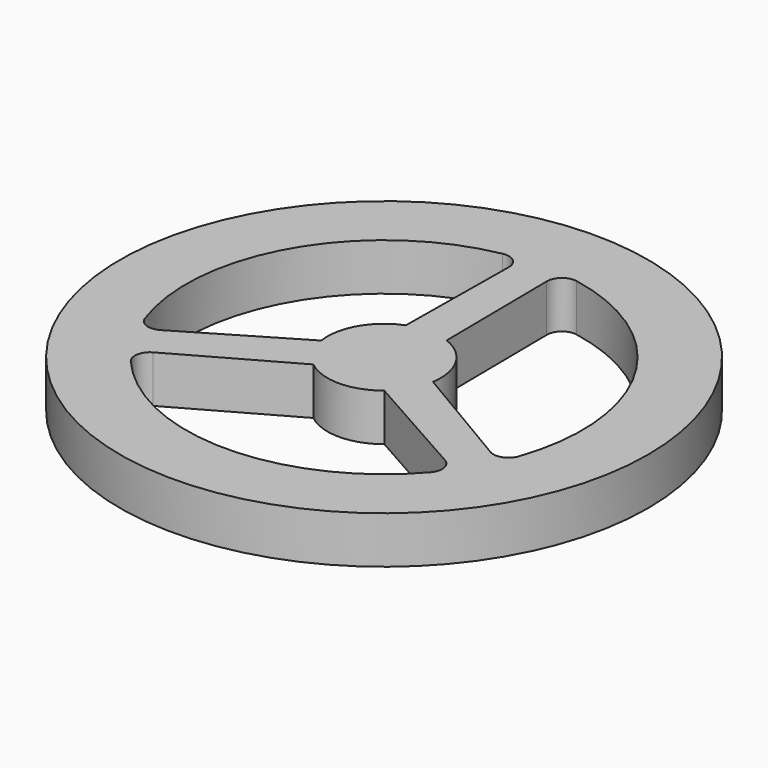
from build123d import *

# Parameters (mm, degrees)
SKETCH_R     = 17.78
PAD_DEPTH    = 3.175
FILLET_R     = 1.016
SKETCH001_R  = 3.81
PAD001_DEPTH = 3.175


with BuildPart() as part:
    # Sketch → Pad (new body)
    with BuildSketch(Plane.XY):
        Circle(SKETCH_R)
        with BuildLine():
            Line((-1.27, 13.274386), (-1.394671, 1.88415))
            ThreePointArc((-2.329057, 0.265745), (-1.649778, 0.9525), (-1.394671, 1.88415))
            Line((-2.329057, 0.265745), (-12.130956, -5.537341))
            ThreePointArc((-1.27, 13.274386), (-11.548449, 6.6675), (-12.130956, -5.537341))
        make_face(mode=Mode.SUBTRACT)
        with BuildLine():
            Line((1.27, 13.274386), (1.394671, 1.88415))
            ThreePointArc((1.394671, 1.88415), (1.649778, 0.9525), (2.329057, 0.265745))
            Line((2.329057, 0.265745), (12.130956, -5.537341))
            ThreePointArc((12.130956, -5.537341), (11.548449, 6.6675), (1.27, 13.274386))
        make_face(mode=Mode.SUBTRACT)
        with BuildLine():
            Line((-0.934387, -2.149896), (-10.860956, -7.737045))
            ThreePointArc((-10.860956, -7.737045), (0, -13.335), (10.860956, -7.737045))
            Line((0.934387, -2.149896), (10.860956, -7.737045))
            ThreePointArc((0.934387, -2.149896), (0, -1.905), (-0.934387, -2.149896))
        make_face(mode=Mode.SUBTRACT)
    extrude(amount=PAD_DEPTH)

    # Fillet
    fillet_edges = [part.edges().sort_by_distance(p)[0] for p in [
        (-12.130956, -5.537341, 1.5875),
        (-1.27, 13.274386, 1.5875),
        (1.27, 13.274386, 1.5875),
        (-10.860956, -7.737045, 1.5875),
        (10.860956, -7.737045, 1.5875),
        (12.130956, -5.537341, 1.5875),
    ]]
    fillet(fillet_edges, radius=FILLET_R)

    # Sketch001 (on Face5 of Fillet) → Pad001 (join)
    with BuildSketch(Plane.XY.offset(3.175)):
        Circle(SKETCH001_R)
    extrude(amount=-PAD001_DEPTH)


solid = part.part
